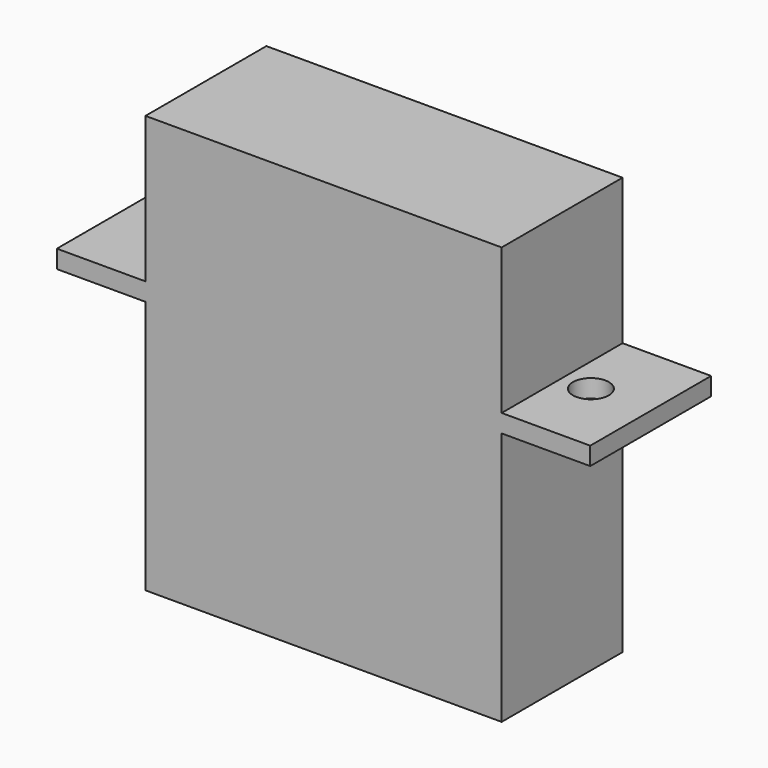
from build123d import *

# Parameters (mm, degrees)
SKETCH_W     = 19.8
SKETCH_H     = 8.4
PAD_DEPTH    = 14.12
SKETCH001_W  = 29.65
SKETCH001_H  = 8.4
PAD001_DEPTH = 1
SKETCH002_R  = 1
POCKET_DEPTH = 15.121
SKETCH003_W  = 19.8
SKETCH003_H  = 8.4
PAD002_DEPTH = 8.1


with BuildPart() as part:
    # Sketch → Pad (new body)
    with BuildSketch(Plane.XY):
        with Locations((9.9, 4.2)):
            Rectangle(SKETCH_W, SKETCH_H)
    extrude(amount=PAD_DEPTH)

    # Sketch001 → Pad001 (new body)
    with BuildSketch(Plane.XY.offset(14.12)):
        with Locations((9.9, 4.2)):
            Rectangle(SKETCH001_W, SKETCH001_H)
    extrude(amount=PAD001_DEPTH)

    # Sketch002 → Pocket (cut, through all)
    with BuildSketch(Plane.XY.offset(15.12)):
        with Locations((-1.6, 4.2)):
            Circle(SKETCH002_R)
        with Locations((21.4, 4.2)):
            Circle(SKETCH002_R)
    extrude(amount=-POCKET_DEPTH, mode=Mode.SUBTRACT)

    # Sketch003 → Pad002 (new body)
    with BuildSketch(Plane.XY.offset(15.12)):
        with Locations((9.9, 4.2)):
            Rectangle(SKETCH003_W, SKETCH003_H)
    extrude(amount=PAD002_DEPTH)


solid = part.part
